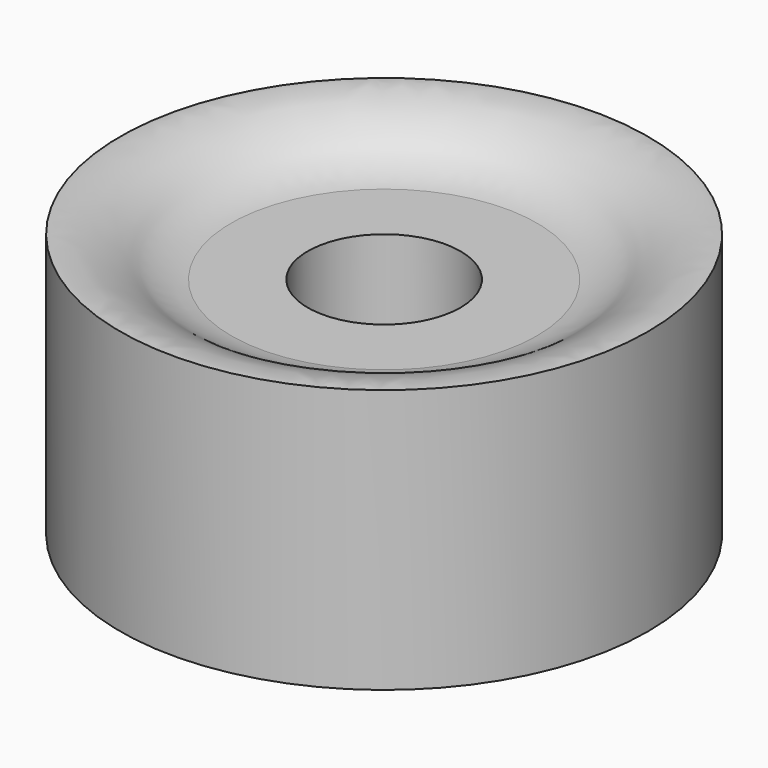
from build123d import *


with BuildPart() as f1:
    # F0 (on Front) → F1 (revolve)
    with BuildSketch(Plane.XZ):
        with BuildLine():
            Line((11, 6.625), (5.5, 6.625))
            Line((5.5, 6.625), (5.5, -6.625))
            Line((5.5, -6.625), (11, -6.625))
            add(Edge.make_bspline(
                [(11, -6.625), (12.4770218782, -6.8073266533), (13.8361511082, -7.7060788567), (14.2416545495, -8.0680834721), (16.9917661697, -9.7409561276), (19, -9.5)],
                knots=[0, 0, 0, 0, 0.3689001328, 0.5280858278, 1, 1, 1, 1], degree=3))
            Line((19, -9.5), (19, 9.5))
            add(Edge.make_bspline(
                [(11, 6.625), (12.4770218782, 6.8073266533), (13.8361511082, 7.7060788567), (14.2416545495, 8.0680834721), (16.9917661697, 9.7409561276), (19, 9.5)],
                knots=[0, 0, 0, 0, 0.3689001328, 0.5280858278, 1, 1, 1, 1], degree=3))
        make_face()
    revolve(axis=Axis((0, 0, -0.4735022907), (0, 0, -1)))


solid = f1.part
